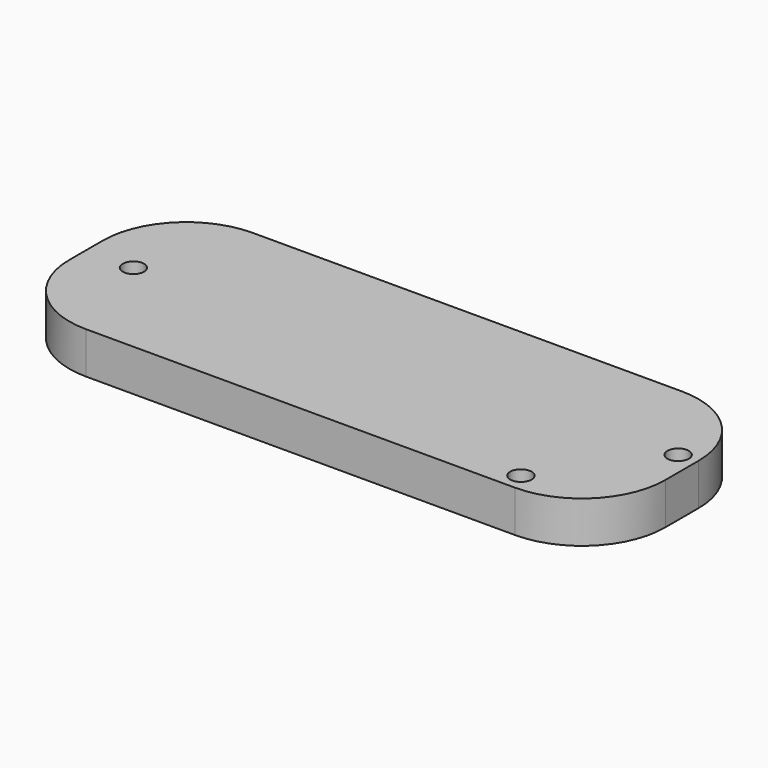
from build123d import *

# Parameters (mm, degrees)
F1_DEPTH = 3.5
F2_R     = 1.8
F3_DEPTH = 11
F4_R     = 1.8
F5_DEPTH = 7


with BuildPart() as f1:
    # F0 (on Top) → F1 (new body, symmetric)
    with BuildSketch(Plane.XY):
        with BuildLine():
            ThreePointArc((50, 3.5), (45.899495, 13.399495), (36, 17.5))
            Line((36, 17.5), (-36, 17.5))
            ThreePointArc((-36, 17.5), (-45.899495, 13.399495), (-50, 3.5))
            Line((-50, 3.5), (-50, -3.5))
            ThreePointArc((-50, -3.5), (-45.899495, -13.399495), (-36, -17.5))
            Line((-36, -17.5), (36, -17.5))
            ThreePointArc((36, -17.5), (45.899495, -13.399495), (50, -3.5))
            Line((50, -3.5), (50, 3.5))
        make_face()
    extrude(amount=F1_DEPTH, both=True)

    # F2 (on face) → F3 (cut)
    with BuildSketch(Plane.XY.offset(3.5)):
        with Locations((-42.049296, 0)):
            Circle(F2_R)
    extrude(amount=-F3_DEPTH, mode=Mode.SUBTRACT)

    # F4 (on face) → F5 (cut)
    with BuildSketch(Plane.XY.offset(3.5)):
        with Locations((46.846839, 3.143723)):
            Circle(F4_R)
        with Locations((34.45389, -14.343117)):
            Circle(F4_R)
    extrude(amount=-F5_DEPTH, mode=Mode.SUBTRACT)


solid = f1.part
